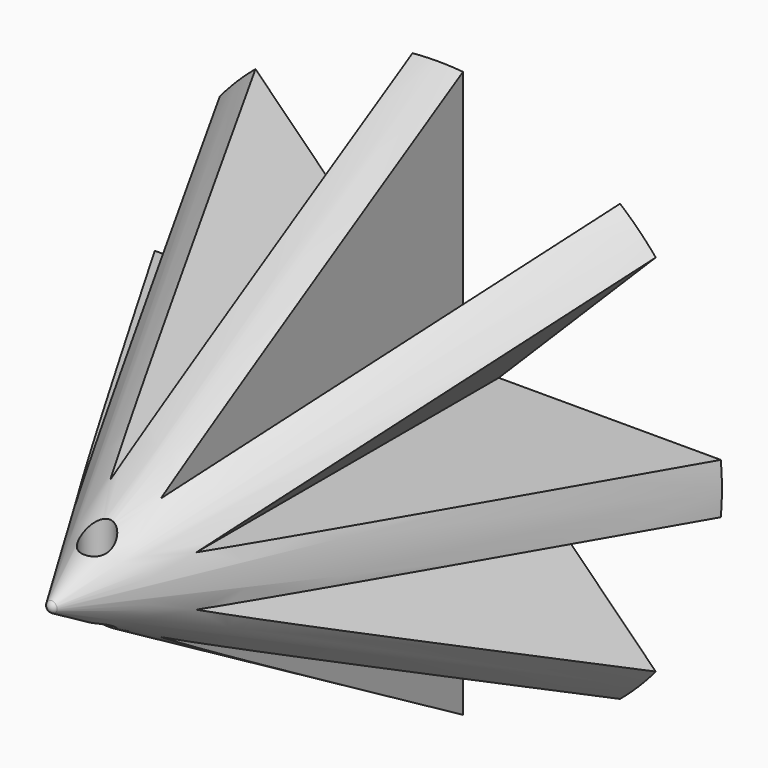
from build123d import *

# Parameters (mm, degrees)
F2_DEPTH       = 2
F2_DEPTH_BACK  = 2
F3_ANGLE       = 45
F4_ANGLE       = 45
F5_ANGLE       = 45
F10_DEPTH      = 0.5
F12_DEPTH      = 0.5
F15_DEPTH      = 0.5
F18_DEPTH      = 0.5
F19_R          = 1.25
F20_DEPTH      = 22.501
F20_DEPTH_BACK = 22.501


with BuildPart() as f2:
    # F1 (on Top) → F2 (new body, two sides)
    with BuildSketch(Plane.XY) as f2_sk:
        Polygon((22.5, 0), (-22.5, 0), (0, -38.9711431703), align=None)
    extrude(amount=F2_DEPTH)
    extrude(f2_sk.sketch, amount=-F2_DEPTH_BACK)


with BuildPart() as f3_1:
    # F3: copy of F2
    add(f2.part.rotate(Axis((0, -18.774760887, 0), (0, 1, 0)), F3_ANGLE))


with BuildPart() as f4_1:
    # F4: copy of F3_1
    add(f3_1.part.rotate(Axis((0, -18.774760887, 0), (0, 1, 0)), F4_ANGLE))


with BuildPart() as f5_1:
    # F5: copy of F4_1
    add(f4_1.part.rotate(Axis((0, -18.774760887, 0), (0, 1, 0)), F5_ANGLE))


with BuildPart() as f2_1:
    add(f2.part)

    # F6: union F3_1, F4_1, F5_1
    add(f3_1.part)
    add(f4_1.part)
    add(f5_1.part)

    # F9 (on line) → F10 (cut, symmetric)
    with BuildSketch(Plane(origin=(0, 0, 0), x_dir=(0, -1, 0), z_dir=(-0.7071067812, 0, 0.7071067812))):
        Polygon((0, -20.1905989232), (20, -8.6435935394), (20, 8.6435935394), (0, 20.1905989232), align=None)
    extrude(amount=F10_DEPTH, both=True, mode=Mode.SUBTRACT)

    # F11 (on Right) → F12 (cut, symmetric)
    with BuildSketch(Plane.YZ):
        Polygon((-20, -8.6435935394), (0, -20.1905989232), (0, 20.1905989232), (-20, 8.6435935394), align=None)
    extrude(amount=F12_DEPTH, both=True, mode=Mode.SUBTRACT)

    # F14 (on Top) → F15 (cut, symmetric)
    with BuildSketch(Plane.XY):
        Polygon((20.1905989232, 0), (-20.1905989232, 0), (-8.6435935394, -20), (8.6435935394, -20), align=None)
    extrude(amount=F15_DEPTH, both=True, mode=Mode.SUBTRACT)

    # F16 (on Top) → F17 (revolve, cut)
    with BuildSketch(Plane.XY):
        with BuildLine():
            Line((47.749247402, 0), (22.5, 0))
            Line((22.5, 0), (0.4330127019, -38.2211431703))
            ThreePointArc((0.4330127019, -38.2211431703), (0.25, -38.4041558722), (0, -38.4711431703))
            Line((0, -38.4711431703), (0, -38.9711431703))
            Line((0, -38.9711431703), (0, -40.9711431703))
            Line((0, -40.9711431703), (49.3083149195, -40.9711431703))
            Line((49.3083149195, -40.9711431703), (47.749247402, 0))
        make_face()
    revolve(axis=Axis((0, -18.774760887, 0), (0, 1, 0)), mode=Mode.SUBTRACT)

    # F13 (on line) → F18 (cut, symmetric)
    with BuildSketch(Plane(origin=(0, 0, 0), x_dir=(0.7071067812, 0, -0.7071067812), z_dir=(-0.7071067812, 0, -0.7071067812))):
        Polygon((-20.1905989232, 0), (20.1905989232, 0), (8.6435935394, 20), (-8.6435935394, 20), align=None)
    extrude(amount=F18_DEPTH, both=True, mode=Mode.SUBTRACT)

    # F19 (on Top) → F20 (cut, two sides)
    with BuildSketch(Plane.XY) as f20_sk:
        with Locations((0, -33.7211431703)):
            Circle(F19_R)
    extrude(amount=-F20_DEPTH, mode=Mode.SUBTRACT)
    extrude(f20_sk.sketch, amount=F20_DEPTH_BACK, mode=Mode.SUBTRACT)


solid = f2_1.part
